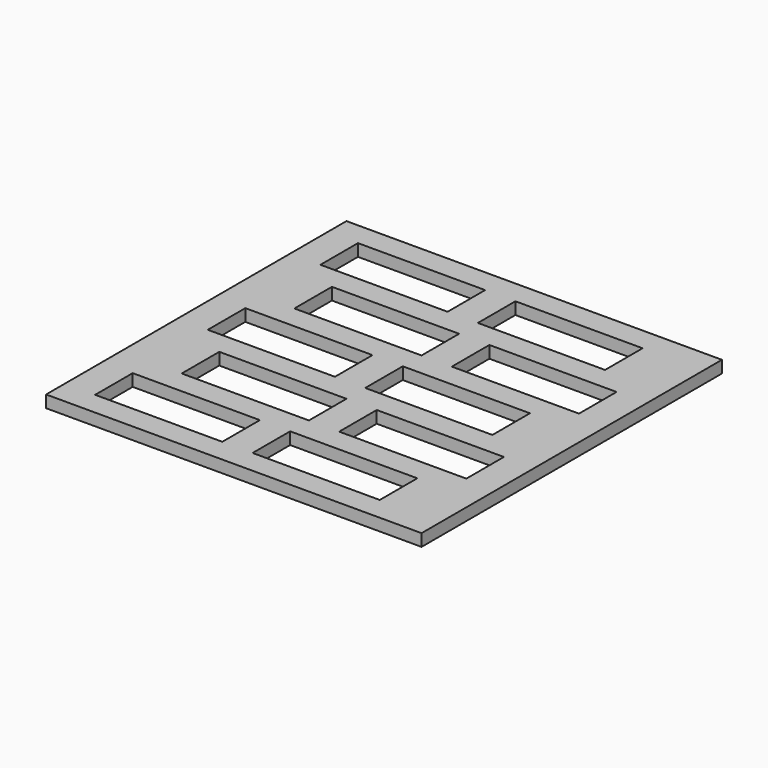
from build123d import *

# Parameters (mm, degrees)
F0_W     = 124
F0_H     = 124
F0_W_2   = 42
F0_H_2   = 15.5
F1_DEPTH = 2


with BuildPart() as f1:
    # F0 (on Top) → F1 (new body, symmetric)
    with BuildSketch(Plane.XY):
        Rectangle(F0_W, F0_H)
        with Locations((-31, -46.5)):
            Rectangle(F0_W_2, F0_H_2, mode=Mode.SUBTRACT)
        with Locations((-21, -23.25)):
            Rectangle(F0_W_2, F0_H_2, mode=Mode.SUBTRACT)
        with Locations((21, -46.5)):
            Rectangle(F0_W_2, F0_H_2, mode=Mode.SUBTRACT)
        with Locations((31, -23.25)):
            Rectangle(F0_W_2, F0_H_2, mode=Mode.SUBTRACT)
        with Locations((-31, 0)):
            Rectangle(F0_W_2, F0_H_2, mode=Mode.SUBTRACT)
        with Locations((-21, 23.25)):
            Rectangle(F0_W_2, F0_H_2, mode=Mode.SUBTRACT)
        with Locations((-31, 46.5)):
            Rectangle(F0_W_2, F0_H_2, mode=Mode.SUBTRACT)
        with Locations((21, 0)):
            Rectangle(F0_W_2, F0_H_2, mode=Mode.SUBTRACT)
        with Locations((31, 23.25)):
            Rectangle(F0_W_2, F0_H_2, mode=Mode.SUBTRACT)
        with Locations((21, 46.5)):
            Rectangle(F0_W_2, F0_H_2, mode=Mode.SUBTRACT)
    extrude(amount=F1_DEPTH, both=True)


solid = f1.part
